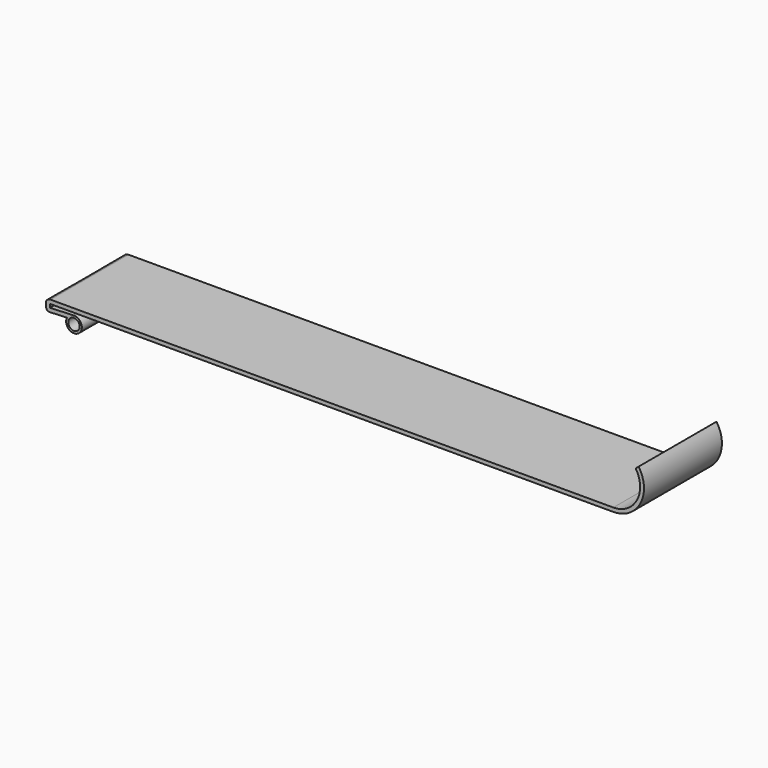
from build123d import *

# Parameters (mm, degrees)
F0_R     = 1.464722
F1_DEPTH = 25


with BuildPart() as f1:
    # F0 (on Front) → F1 (new body)
    with BuildSketch(Plane.XZ):
        with BuildLine():
            Line((56.823755, 29.957542), (-87.65175, 29.957542))
            add(Edge.make_bspline(
                [(-87.65175, 29.957542), (-88.301932, 29.960531), (-88.75546, 29.505347), (-88.781094, 29.047866)],
                knots=[0, 0, 0, 0, 1.450148, 1.450148, 1.450148, 1.450148], degree=3))
            Line((-88.781094, 29.047866), (-88.781094, 27.945455))
            add(Edge.make_bspline(
                [(-88.781094, 27.945455), (-88.775299, 27.514639), (-88.530844, 27.140533), (-87.988705, 27.056743)],
                knots=[0, 0, 0, 0, 1.190668, 1.190668, 1.190668, 1.190668], degree=3))
            Line((-87.988705, 27.056743), (-83.400639, 27.243855))
            ThreePointArc((-83.400639, 27.243855), (-80.673788, 24.526915), (-81.402029, 28.306749))
            ThreePointArc((-81.402029, 28.306749), (-81.605014, 28.318455), (-81.808144, 28.309632))
            Line((-81.808144, 28.309632), (-87.781094, 28.066041))
            Line((-87.781094, 28.066041), (-87.781094, 28.957542))
            Line((-87.781094, 28.957542), (56.823755, 28.957542))
            ThreePointArc((56.823755, 28.957542), (63.800247, 33.172878), (63.313478, 41.309435))
            Line((63.313478, 41.309435), (62.549877, 40.653716))
            ThreePointArc((62.549877, 40.653716), (62.889985, 33.590834), (56.823755, 29.957542))
        make_face()
        with Locations((-81.619306, 26.304817)):
            Circle(F0_R, mode=Mode.SUBTRACT)
    extrude(amount=F1_DEPTH)


solid = f1.part
